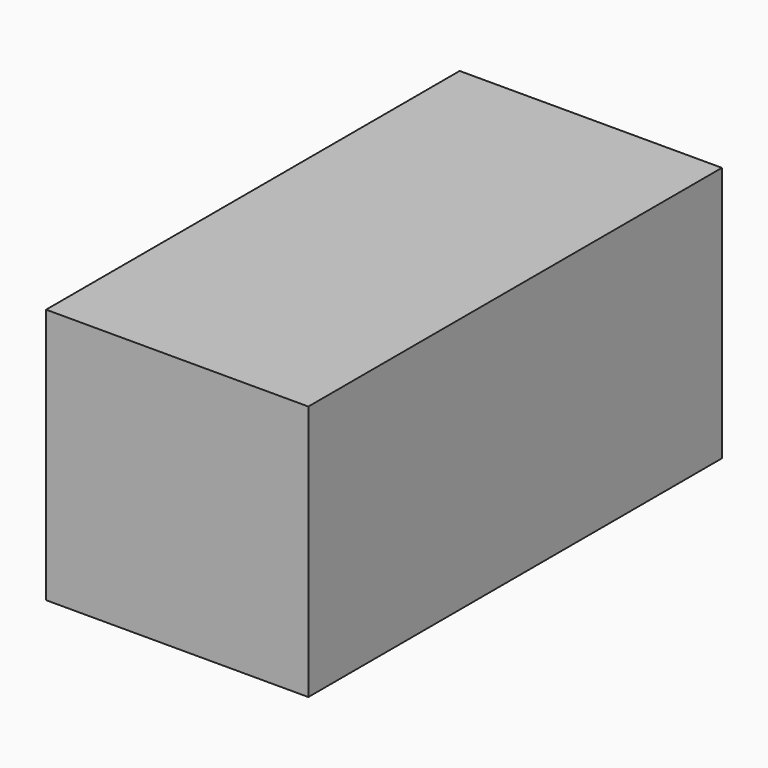
from build123d import *

# Parameters (mm, degrees)
F1_DEPTH      = 101.6
F1_DEPTH_BACK = 101.6


with BuildPart() as f1:
    # F0 (on Front) → F1 (new body, two sides)
    with BuildSketch(Plane.XZ) as f1_sk:
        Polygon((46.7839390039, 60.795083642), (-56.3057512045, 60.795083642), (-56.3057512045, -39.740473032), (46.7839390039, -39.740473032), (46.7839390039, 54.4387847185), align=None)
    extrude(amount=-F1_DEPTH)
    extrude(f1_sk.sketch, amount=F1_DEPTH_BACK)


solid = f1.part
